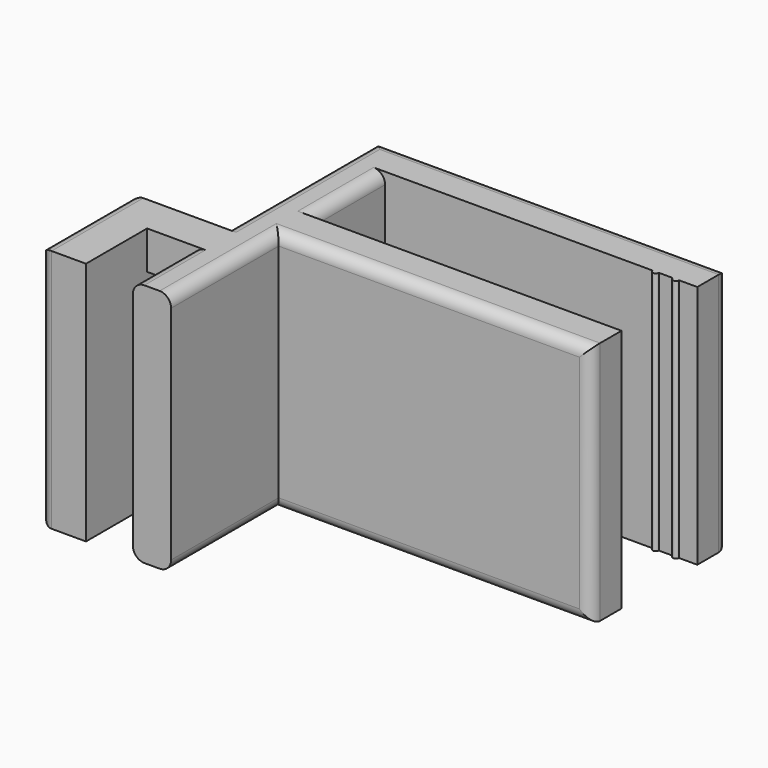
from build123d import *

# Parameters (mm, degrees)
F0_W     = 6.14
F0_H     = 5
F1_DEPTH = 32
F2_W     = 6.14
F2_H     = 21.9306324124
F3_DEPTH = 5
F4_DEPTH = 7.4
F5_DEPTH = 7.4
F6_R     = 1.5


with BuildPart() as f1:
    # F0 (on Top) → F1 (new body)
    with BuildSketch(Plane.XY):
        Polygon((0, 15), (0, 0), (6, 0), (6, 10), (6, 15), align=None)
        with Locations((9.07, 12.5)):
            Rectangle(F0_W, F0_H)
        Polygon((12.14, 15), (12.14, 10), (12.14, 0), (17.14, 0), (17.14, 25), (58, 25), (58, 30), (17.14, 30), (17.14, 35), (52.157233721, 35), (52.957233721, 35), (54.8181005478, 35), (55.6181005478, 35), (58, 35), (58, 40), (12.14, 40), (12.14, 25), align=None)
        with BuildLine():
            ThreePointArc((54.8181005478, 35), (55.2181005478, 34.6), (55.6181005478, 35))
            Line((55.6181005478, 35), (54.8181005478, 35))
        make_face()
        with BuildLine():
            ThreePointArc((52.157233721, 35), (52.557233721, 34.6), (52.957233721, 35))
            Line((52.957233721, 35), (52.157233721, 35))
        make_face()
    extrude(amount=F1_DEPTH)

    # F2 (on face) → F3 (cut)
    with BuildSketch(Plane.XZ.offset(-10)):
        with Locations((9.07, 16.0346837938)):
            Rectangle(F2_W, F2_H)
    extrude(amount=-F3_DEPTH, mode=Mode.SUBTRACT)

    # F4 (add): a face of the model
    f4_faces = [f1.faces().sort_by_distance(p)[0] for p in [
        (37.57, 25, 16),
    ]]
    extrude(f4_faces, amount=F4_DEPTH)

    # F5 (cut): a face of the model
    f5_faces = [f1.faces().sort_by_distance(p)[0] for p in [
        (37.57, 30, 16),
    ]]
    extrude(f5_faces, amount=-F5_DEPTH, mode=Mode.SUBTRACT)

    # F6
    f6_edges = [f1.edges().sort_by_distance(p)[0] for p in [
        (12.14, 5, 32),
        (12.14, 27.5, 32),
        (12.14, 5, 0),
        (12.14, 27.5, 0),
        (0, 15, 16),
        (0, 0, 16),
        (0, 7.5, 0),
        (0, 7.5, 32),
        (17.14, 8.8, 0),
        (17.14, 28.8, 0),
        (17.14, 28.8, 32),
        (17.14, 8.8, 32),
        (37.57, 17.6, 32),
        (37.57, 17.6, 0),
        (35.07, 40, 0),
        (35.07, 40, 32),
        (58, 40, 16),
        (58, 17.6, 16),
    ]]
    fillet(f6_edges, radius=F6_R)


solid = f1.part
